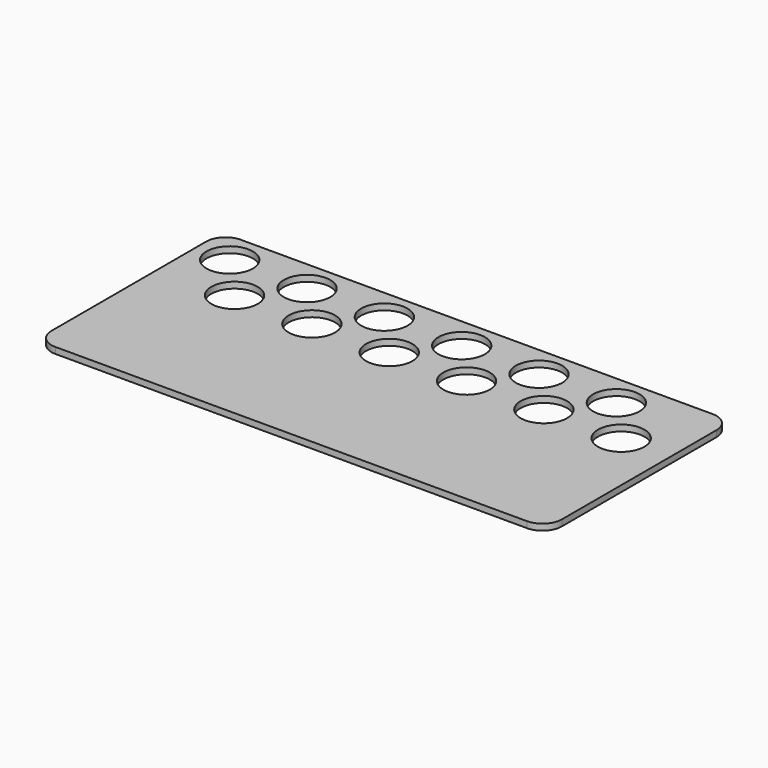
from build123d import *

# Parameters (mm, degrees)
F1_DEPTH = 4
F2_R     = 15
F3_DEPTH = 25


with BuildPart() as f1:
    # F0 (on Top) → F1 (new body)
    with BuildSketch(Plane.XY):
        with BuildLine():
            ThreePointArc((0, 12.5), (3.661165, 3.661165), (12.5, 0))
            Line((12.5, 0), (317.5, 0))
            ThreePointArc((317.5, 0), (326.338835, 3.661165), (330, 12.5))
            Line((330, 12.5), (330, 137.5))
            ThreePointArc((330, 137.5), (326.338835, 146.338835), (317.5, 150))
            Line((317.5, 150), (12.5, 150))
            ThreePointArc((12.5, 150), (3.661165, 146.338835), (0, 137.5))
            Line((0, 137.5), (0, 12.5))
        make_face()
    extrude(amount=F1_DEPTH)

    # F2 (on face) → F3 (cut)
    with BuildSketch(Plane.XY.offset(4)):
        with Locations((21.839725, 129.246175)):
            Circle(F2_R)
        with Locations((71.839725, 129.246175)):
            Circle(F2_R)
        with Locations((121.839725, 129.246175)):
            Circle(F2_R)
        with Locations((171.839725, 129.246175)):
            Circle(F2_R)
        with Locations((221.839725, 129.246175)):
            Circle(F2_R)
        with Locations((271.839725, 129.246175)):
            Circle(F2_R)
        with Locations((47.92868, 100.55139)):
            Circle(F2_R)
        with Locations((97.92868, 100.55139)):
            Circle(F2_R)
        with Locations((147.92868, 100.55139)):
            Circle(F2_R)
        with Locations((197.92868, 100.55139)):
            Circle(F2_R)
        with Locations((247.92868, 100.55139)):
            Circle(F2_R)
        with Locations((297.92868, 100.55139)):
            Circle(F2_R)
    extrude(amount=-F3_DEPTH, mode=Mode.SUBTRACT)


solid = f1.part
